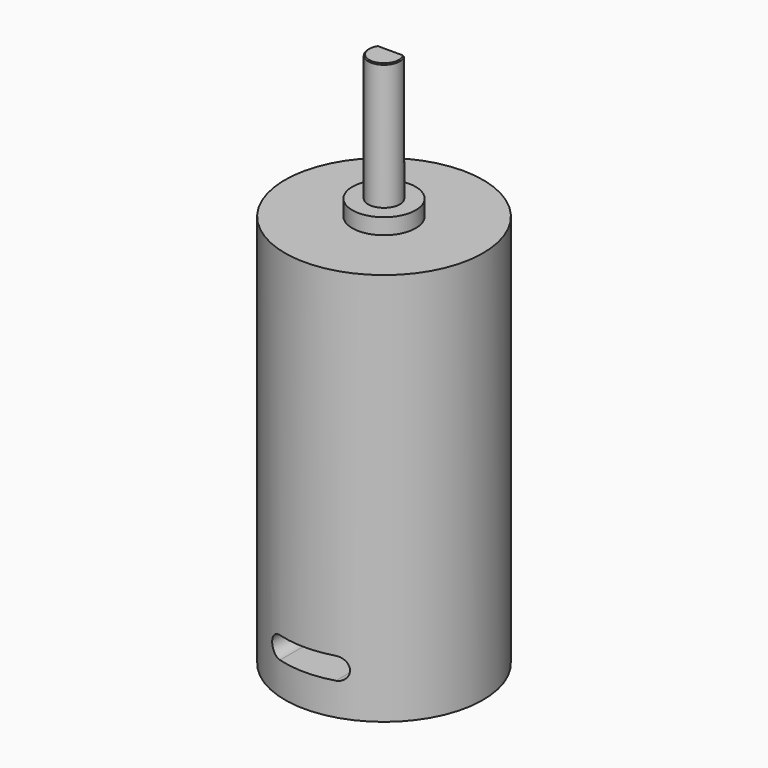
from build123d import *

# Parameters (mm, degrees)
F2_W     = 3.4641016151
F2_H     = 1
F3_DEPTH = 12
F4_SIZE  = 0.127
F6_DEPTH = 76.2


with BuildPart() as f1:
    # F0 (on Right) → F1 (revolve)
    with BuildSketch(Plane.YZ):
        Polygon((0, 67.61), (0, 0), (12.5, 0), (12.5, 49.61), (4, 49.61), (4, 51.61), (2, 51.61), (2, 67.61), align=None)
    revolve(axis=Axis((0, 0, 33.805), (0, 0, -1)))

    # F2 (on face) → F3 (cut)
    with BuildSketch(Plane.XY.offset(67.61)):
        with Locations((0, 1.5)):
            Rectangle(F2_W, F2_H)
    extrude(amount=-F3_DEPTH, mode=Mode.SUBTRACT)

    # F4
    f4_edges = [f1.edges().sort_by_distance(p)[0] for p in [
        (0, -2, 67.61),
    ]]
    chamfer(f4_edges, length=F4_SIZE)

    # F5 (on Front) → F6 (cut, symmetric)
    with BuildSketch(Plane.XZ):
        with BuildLine():
            ThreePointArc((-2.1409534384, 5.472927049), (-2.5461377058, 6.4511284027), (-3.5243390594, 6.8563126701))
            Line((-3.5243390594, 6.8563126701), (-3.5243390594, 4.089541428))
            ThreePointArc((-3.5243390594, 4.089541428), (-2.5461377058, 4.4947256954), (-2.1409534384, 5.472927049))
        make_face()
        with BuildLine():
            Line((3.5243390594, 6.8563126701), (-3.5243390594, 6.8563126701))
            ThreePointArc((-3.5243390594, 6.8563126701), (-2.5461377058, 6.4511284027), (-2.1409534384, 5.472927049))
            ThreePointArc((-2.1409534384, 5.472927049), (-2.5461377058, 4.4947256954), (-3.5243390594, 4.089541428))
            Line((-3.5243390594, 4.089541428), (3.5243390594, 4.089541428))
            ThreePointArc((3.5243390594, 4.089541428), (2.1409534384, 5.472927049), (3.5243390594, 6.8563126701))
        make_face()
        with BuildLine():
            Line((-3.5243390594, 4.089541428), (-3.5243390594, 6.8563126701))
            ThreePointArc((-3.5243390594, 6.8563126701), (-4.9077246804, 5.472927049), (-3.5243390594, 4.089541428))
        make_face()
        with BuildLine():
            ThreePointArc((4.9077246804, 5.472927049), (4.502540413, 6.4511284027), (3.5243390594, 6.8563126701))
            Line((3.5243390594, 6.8563126701), (3.5243390594, 4.089541428))
            ThreePointArc((3.5243390594, 4.089541428), (4.502540413, 4.4947256954), (4.9077246804, 5.472927049))
        make_face()
        with BuildLine():
            Line((3.5243390594, 4.089541428), (3.5243390594, 6.8563126701))
            ThreePointArc((3.5243390594, 6.8563126701), (2.1409534384, 5.472927049), (3.5243390594, 4.089541428))
        make_face()
    extrude(amount=F6_DEPTH, both=True, mode=Mode.SUBTRACT)


solid = f1.part
